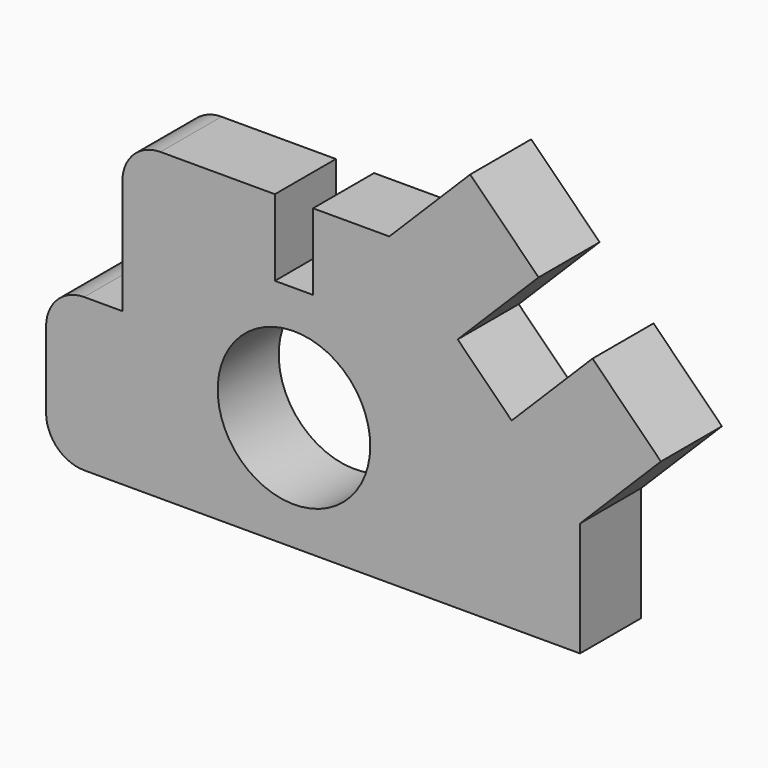
from build123d import *

# Parameters (mm, degrees)
F0_R     = 254
F1_DEPTH = 254


with BuildPart() as f1:
    # F0 (on Front) → F1 (new body)
    with BuildSketch(Plane.XZ):
        with BuildLine():
            ThreePointArc((0, 127), (37.197439, 37.197439), (127, 0))
            Line((127, 0), (1778, 0))
            Line((1778, 0), (1778, 381))
            Line((1778, 381), (2047.407684, 650.407684))
            Line((2047.407684, 650.407684), (1819.710245, 878.105122))
            Line((1819.710245, 878.105122), (1550.302561, 608.697439))
            Line((1550.302561, 608.697439), (1370.697439, 788.302561))
            Line((1370.697439, 788.302561), (1640.105122, 1057.710245))
            Line((1640.105122, 1057.710245), (1412.407684, 1285.407684))
            Line((1412.407684, 1285.407684), (1143, 1016))
            Line((1143, 1016), (889, 1016))
            Line((889, 1016), (889, 762))
            Line((889, 762), (762, 762))
            Line((762, 762), (762, 1016))
            Line((762, 1016), (381, 1016))
            ThreePointArc((381, 1016), (291.197439, 978.802561), (254, 889))
            Line((254, 889), (254, 508))
            Line((254, 508), (127, 508))
            ThreePointArc((127, 508), (37.197439, 470.802561), (0, 381))
            Line((0, 381), (0, 127))
        make_face()
        with Locations((825.5, 381)):
            Circle(F0_R, mode=Mode.SUBTRACT)
    extrude(amount=F1_DEPTH)


solid = f1.part
